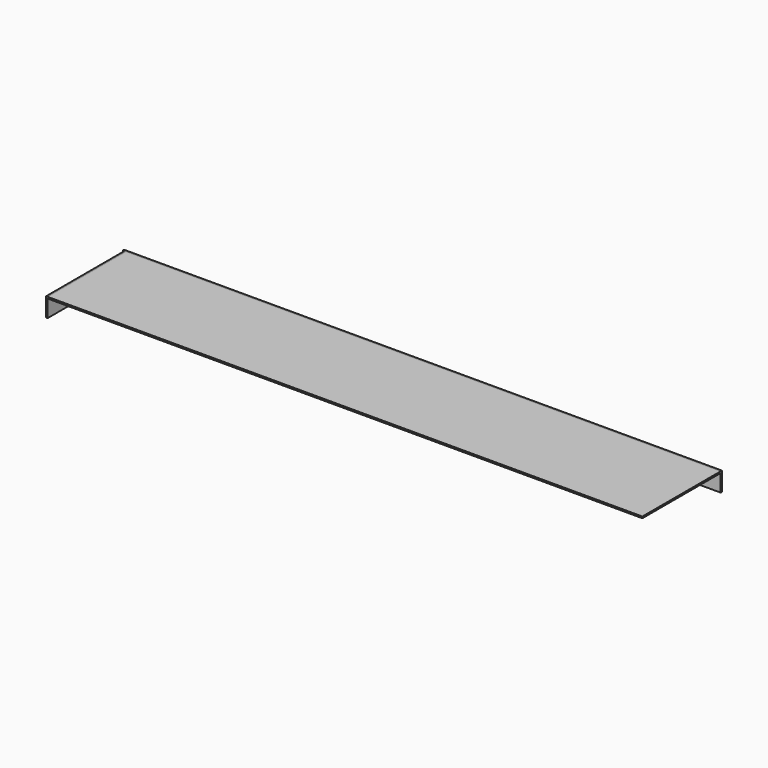
from build123d import *

# Parameters (mm, degrees)
F0_W     = 2387.6
F0_H     = 392.90498
F1_DEPTH = 6.35
F2_W     = 392.90498
F2_H     = 69.05498
F2_H_2   = 6.35
F3_DEPTH = 6.35
F4_W     = 2387.6
F4_H     = 6.35
F5_DEPTH = 6.35


with BuildPart() as f1:
    # F0 (on Top) → F1 (new body)
    with BuildSketch(Plane.XY):
        Rectangle(F0_W, F0_H)
    extrude(amount=F1_DEPTH)


with BuildPart() as f3:
    # F2 (on face) → F3 (new body)
    with BuildSketch(Plane(origin=(-1193.8, 0, 0), x_dir=(0, -1, 0), z_dir=(-1, 0, 0))):
        with Locations((0, -34.52749)):
            Rectangle(F2_W, F2_H)
        with Locations((0, 3.175)):
            Rectangle(F2_W, F2_H_2)
    extrude(amount=F3_DEPTH)


with BuildPart() as f5:
    # F4 (on face) → F5 (new body)
    with BuildSketch(Plane(origin=(0, 196.45249, 0), x_dir=(-1, 0, 0), z_dir=(0, 1, 0))):
        with Locations((0, 3.175)):
            Rectangle(F4_W, F4_H)
        Polygon((1206.5, 6.35), (1193.8, 6.35), (1193.8, 0), (-1193.8, 0), (-1193.8, -69.05498), (1206.5, -69.05498), align=None)
    extrude(amount=F5_DEPTH)


solid = Compound([f1.part, f3.part, f5.part])
